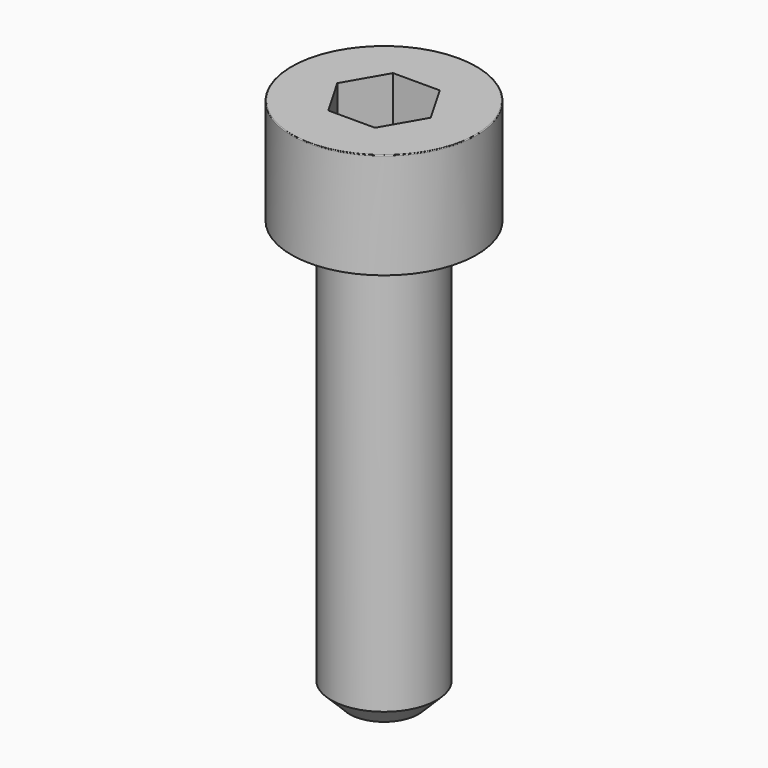
from build123d import *

# Parameters (mm, degrees)
POCKET_DEPTH = 3.06


with BuildPart() as part:
    # Sketch → Revolve (revolve)
    with BuildSketch(Plane.YZ):
        with BuildLine():
            Line((1.999, 0), (3.5, 0))
            Line((3.5, 0), (3.5, 3.97229))
            ThreePointArc((3.5, 3.97229), (3.491884, 3.991884), (3.47229, 4))
            Line((3.47229, 4), (0, 4))
            Line((0, -16), (0, 4))
            Line((1.3, -16), (0, -16))
            Line((2, -15.3), (1.3, -16))
            Line((2, -0.2), (2, -15.3))
            Line((1.999, 0), (2, -0.2))
        make_face()
    revolve(axis=Axis((0, 0, 0), (0, 0, 1)))

    # Sketch001 → Pocket (cut)
    with BuildSketch(Plane.XY.offset(4)):
        Polygon((1.766692, 0), (0.883346, 1.53), (-0.883346, 1.53), (-1.766692, 0), (-0.883346, -1.53), (0.883346, -1.53), align=None)
    extrude(amount=-POCKET_DEPTH, mode=Mode.SUBTRACT)


solid = part.part
